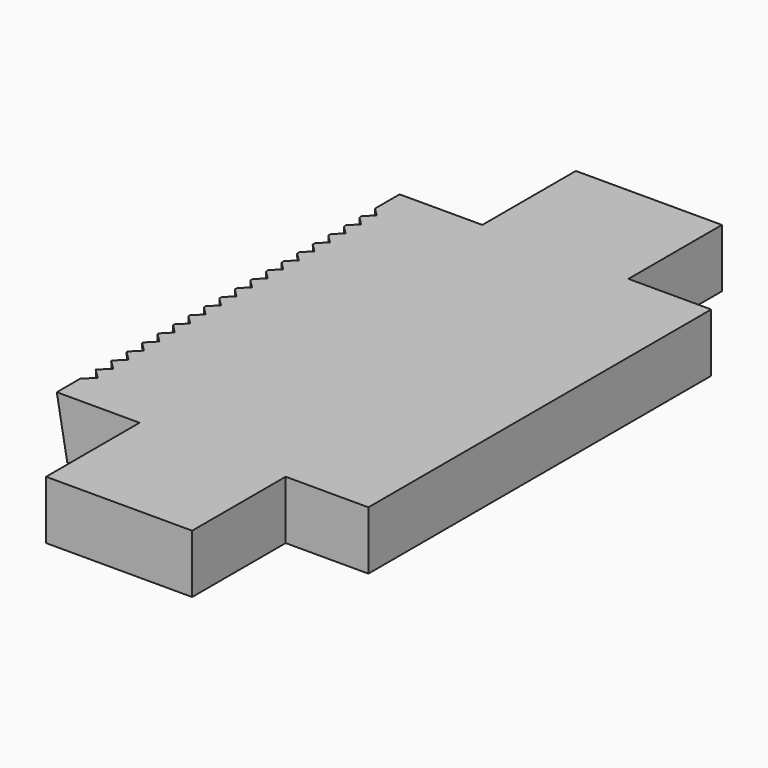
from build123d import *

# Parameters (mm, degrees)
F0_W     = 16
F0_H     = 3
F1_DEPTH = 22
F2_W     = 7.5
F2_H     = 3
F3_DEPTH = 6
F4_W     = 7.5
F4_H     = 3
F5_DEPTH = 6
F7_DEPTH = 3.001
F9_DEPTH = 28.001


with BuildPart() as f1:
    # F0 (on Front) → F1 (new body)
    with BuildSketch(Plane.XZ):
        Rectangle(F0_W, F0_H)
    extrude(amount=F1_DEPTH)

    # F2 (on face) → F3 (join)
    with BuildSketch(Plane.XZ.offset(22)):
        Rectangle(F2_W, F2_H)
    extrude(amount=F3_DEPTH)

    # F4 (on face) → F5 (join)
    with BuildSketch(Plane(origin=(0, 0, 0), x_dir=(-1, 0, 0), z_dir=(0, 1, 0))):
        Rectangle(F4_W, F4_H)
    extrude(amount=F5_DEPTH)

    # F6 (on face) → F7 (cut, through all)
    with BuildSketch(Plane.XY.offset(1.5)):
        Polygon((-8, -1.5746736809), (-8, -2.4259408148), (-7.574366433, -2.0003072478), align=None)
        Polygon((-8, -2.5746736809), (-8, -3.4259408148), (-7.574366433, -3.0003072478), align=None)
        Polygon((-8, -3.5746736809), (-8, -4.4259408148), (-7.574366433, -4.0003072478), align=None)
        Polygon((-8, -4.5746736809), (-8, -5.4259408148), (-7.574366433, -5.0003072478), align=None)
        Polygon((-8, -5.5746736809), (-8, -6.4259408148), (-7.574366433, -6.0003072478), align=None)
        Polygon((-8, -6.5746736809), (-8, -7.4259408148), (-7.574366433, -7.0003072478), align=None)
        Polygon((-8, -7.5746736809), (-8, -8.4259408148), (-7.574366433, -8.0003072478), align=None)
        Polygon((-8, -8.5746736809), (-8, -9.4259408148), (-7.574366433, -9.0003072478), align=None)
        Polygon((-8, -9.5746736808), (-8, -10.4259408148), (-7.574366433, -10.0003072478), align=None)
        Polygon((-7.574366433, -11.0003072478), (-8, -10.5746736808), (-8, -11.4259408148), align=None)
        Polygon((-7.566103496, -12.0002731092), (-8, -11.5663766052), (-8, -12.4341696131), align=None)
        Polygon((-7.557840559, -13.0002389705), (-8, -12.5580795295), (-8, -13.4423984115), align=None)
        Polygon((-7.549577622, -14.0002048319), (-8, -13.5497824539), (-8, -14.4506272099), align=None)
        Polygon((-7.541314685, -15.0001706932), (-8, -14.5414853782), (-8, -15.4588560082), align=None)
        Polygon((-7.5, -20), (-8, -19.5), (-8, -20.5), align=None)
        Polygon((-7.508262937, -19.0000341386), (-8, -18.5082970756), (-8, -19.4917712016), align=None)
        Polygon((-7.516525874, -18.0000682773), (-8, -17.5165941513), (-8, -18.4835424033), align=None)
        Polygon((-7.524788811, -17.0001024159), (-8, -16.5248912269), (-8, -17.4753136049), align=None)
        Polygon((-7.533051748, -16.0001365546), (-8, -15.5331883026), (-8, -16.4670848066), align=None)
    extrude(amount=-F7_DEPTH, mode=Mode.SUBTRACT)

    # F8 (on face) → F9 (cut, through all)
    with BuildSketch(Plane.XZ.offset(22)):
        Polygon((-7.4629583396, -1.5), (-8, 1.5), (-8, -1.5), align=None)
    extrude(amount=-F9_DEPTH, mode=Mode.SUBTRACT)


solid = f1.part
